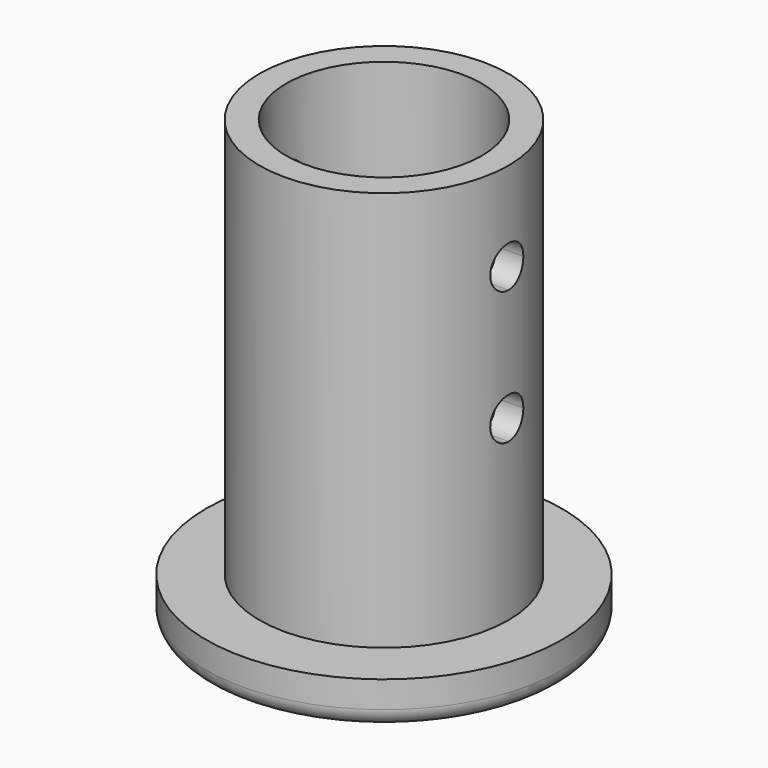
from build123d import *

# Parameters (mm, degrees)
F0_R          = 14
F0_R_2        = 11
F1_DEPTH      = 50
F0_R_3        = 20
F2_DEPTH      = 5
F3_DEPTH      = 5
F4_R          = 2
F6_DEPTH      = 20.0010001
F6_DEPTH_BACK = 25


with BuildPart() as f1:
    # F0 (on Top) → F1 (new body)
    with BuildSketch(Plane.XY):
        Circle(F0_R)
        Circle(F0_R_2, mode=Mode.SUBTRACT)
    extrude(amount=F1_DEPTH)

    # F0 (on Top) → F2 (join)
    with BuildSketch(Plane.XY):
        Circle(F0_R_3)
        Circle(F0_R, mode=Mode.SUBTRACT)
        Circle(F0_R_3)
        Circle(F0_R, mode=Mode.SUBTRACT)
    extrude(amount=F2_DEPTH)

    # F0 (on Top) → F3 (join)
    with BuildSketch(Plane.XY):
        Circle(F0_R_2)
    extrude(amount=F3_DEPTH)

    # F4
    f4_edges = [f1.edges().sort_by_distance(p)[0] for p in [
        (-20, 0, 0),
    ]]
    fillet(f4_edges, radius=F4_R)

    # F5 (on Right) → F6 (cut, two sides)
    with BuildSketch(Plane.YZ) as f6_sk:
        with BuildLine():
            ThreePointArc((2.325, 40), (-1.6440232663, 41.6440232663), (0, 37.675))
            ThreePointArc((0, 37.675), (1.6440232663, 38.3559767337), (2.325, 40))
        make_face()
        with BuildLine():
            Line((0, 25), (0, 22.675))
            ThreePointArc((0, 22.675), (1.6440232663, 23.3559767337), (2.325, 25))
            ThreePointArc((2.325, 25), (1.6440232663, 26.6440232663), (0, 27.325))
            Line((0, 27.325), (0, 25))
        make_face()
        with BuildLine():
            ThreePointArc((0, 27.325), (-2.325, 25), (0, 22.675))
            Line((0, 22.675), (0, 25))
            Line((0, 25), (0, 27.325))
        make_face()
    extrude(amount=-F6_DEPTH, mode=Mode.SUBTRACT)
    extrude(f6_sk.sketch, amount=F6_DEPTH_BACK, mode=Mode.SUBTRACT)


solid = f1.part
